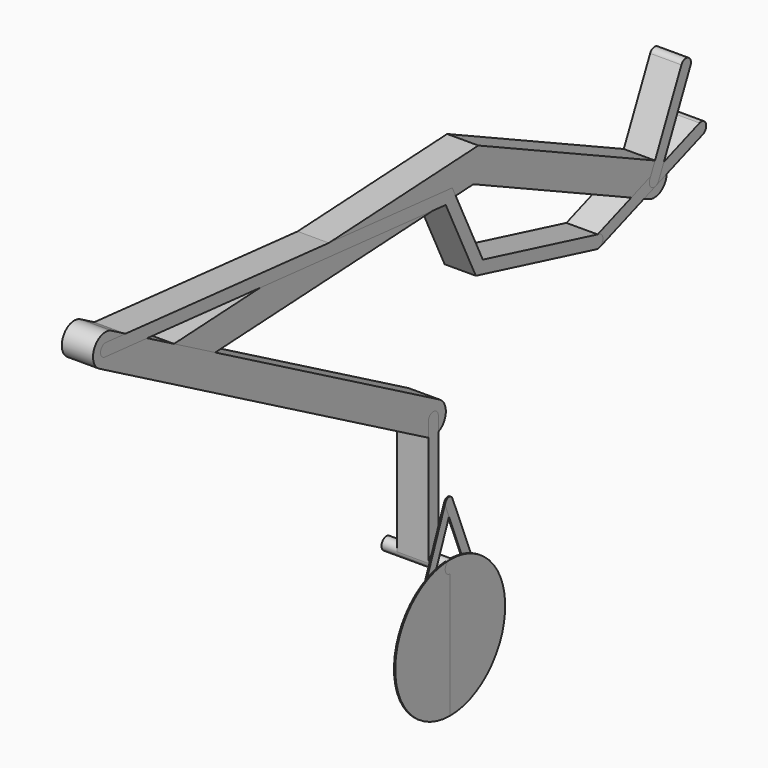
from build123d import *

# Parameters (mm, degrees)
F4_DEPTH  = 25
F5_DEPTH  = 25
F6_DEPTH  = 25
F7_DEPTH  = 25
F9_DEPTH  = 25
F11_DEPTH = 25
F12_DEPTH = 50
F14_DEPTH = 2
F15_DEPTH = 2
F16_DEPTH = 2
F17_DEPTH = 2


with BuildPart() as f4:
    # F0 (on Right) → F4 (new body, symmetric)
    with BuildSketch(Plane.YZ):
        with BuildLine():
            ThreePointArc((-10.5654565435, -22.6576946759), (13.4324902087, -21.0847861453), (25, 0))
            ThreePointArc((25, 0), (21.0847861453, 13.4324902087), (10.5654565435, 22.6576946759))
            ThreePointArc((10.5654565435, 22.6576946759), (-22.6576946759, 10.5654565435), (-10.5654565435, -22.6576946759))
        make_face()
        with BuildLine():
            ThreePointArc((-10.5654565435, -22.6576946759), (-22.6576946759, 10.5654565435), (10.5654565435, 22.6576946759))
            Line((10.5654565435, 22.6576946759), (-351.9576582711, 191.7049993722))
            Line((-351.9576582711, 191.7049993722), (-361.9619242348, 141.2011692572))
            Line((-361.9619242348, 141.2011692572), (-10.5654565435, -22.6576946759))
        make_face()
        with BuildLine():
            Line((-361.9619242348, 141.2011692572), (-351.9576582711, 191.7049993722))
            Line((-351.9576582711, 191.7049993722), (-968.1120812147, 159.4137143703))
            ThreePointArc((-968.1120812147, 159.4137143703), (-991.6920086499, 132.0876345158), (-963.3955999376, 109.6813659275))
            Line((-963.3955999376, 109.6813659275), (-361.9619242348, 141.2011692572))
        make_face()
    extrude(amount=F4_DEPTH, both=True)


with BuildPart() as f5:
    # F1 (on Right) → F5 (new body, symmetric)
    with BuildSketch(Plane.YZ):
        with BuildLine():
            ThreePointArc((-454.1520985312, -178.3032888249), (-429.343398951, -177.9785251574), (-417.031858025, -156.4377961464))
            ThreePointArc((-417.031858025, -156.4377961464), (-420.491129014, -143.7493370723), (-429.9116175188, -134.5723034679))
            ThreePointArc((-429.9116175188, -134.5723034679), (-463.8973507035, -144.3175556402), (-454.1520985312, -178.3032888249))
        make_face()
        with BuildLine():
            ThreePointArc((-454.1520985312, -178.3032888249), (-463.8973507035, -144.3175556402), (-429.9116175188, -134.5723034679))
            Line((-429.9116175188, -134.5723034679), (-954.6834418025, 156.3134686799))
            ThreePointArc((-954.6834418025, 156.3134686799), (-945.2629532976, 147.1364350755), (-941.8036823086, 134.4479760014))
            ThreePointArc((-941.8036823086, 134.4479760014), (-954.1152232346, 112.9072469904), (-978.9239228148, 112.582483323))
            Line((-978.9239228148, 112.582483323), (-454.1520985312, -178.3032888249))
        make_face()
        with BuildLine():
            ThreePointArc((-978.9239228148, 112.582483323), (-988.6691749871, 146.5682165076), (-954.6834418025, 156.3134686799))
            Line((-954.6834418025, 156.3134686799), (-1085.8763978734, 229.0349117169))
            ThreePointArc((-1085.8763978734, 229.0349117169), (-1119.862131058, 219.2896595445), (-1110.1168788857, 185.3039263599))
            Line((-1110.1168788857, 185.3039263599), (-978.9239228148, 112.582483323))
        make_face()
        with BuildLine():
            ThreePointArc((-941.8036823086, 134.4479760014), (-945.2629532976, 147.1364350755), (-954.6834418025, 156.3134686799))
            ThreePointArc((-954.6834418025, 156.3134686799), (-988.6691749871, 146.5682165076), (-978.9239228148, 112.582483323))
            ThreePointArc((-978.9239228148, 112.582483323), (-954.1152232346, 112.9072469904), (-941.8036823086, 134.4479760014))
        make_face()
    extrude(amount=F5_DEPTH, both=True)


with BuildPart() as f6:
    # F2 (on Right) → F6 (new body, symmetric)
    with BuildSketch(Plane.YZ):
        with BuildLine():
            ThreePointArc((3.4202014333, -9.3969262079), (8.1915204429, -5.7357643635), (10, 0))
            ThreePointArc((10, 0), (5.7357643635, 8.1915204429), (-3.4202014333, 9.3969262079))
            ThreePointArc((-3.4202014333, 9.3969262079), (-9.3969262079, -3.4202014333), (3.4202014333, -9.3969262079))
        make_face()
        with BuildLine():
            ThreePointArc((-3.4202014333, 9.3969262079), (5.7357643635, 8.1915204429), (10, 0))
            ThreePointArc((10, 0), (8.1915204429, -5.7357643635), (3.4202014333, -9.3969262079))
            Line((3.4202014333, -9.3969262079), (97.3894635118, 24.8050881247))
            ThreePointArc((97.3894635118, 24.8050881247), (103.3661882864, 37.6222157658), (90.5490606453, 43.5989405404))
            Line((90.5490606453, 43.5989405404), (-3.4202014333, 9.3969262079))
        make_face()
        with BuildLine():
            ThreePointArc((3.4202014333, -9.3969262079), (-9.3969262079, -3.4202014333), (-3.4202014333, 9.3969262079))
            Line((-3.4202014333, 9.3969262079), (-116.1833159276, -31.6454909912))
            ThreePointArc((-116.1833159276, -31.6454909912), (-122.1600407022, -44.4626186323), (-109.3429130611, -50.4393434069))
            Line((-109.3429130611, -50.4393434069), (3.4202014333, -9.3969262079))
        make_face()
    extrude(amount=F6_DEPTH, both=True)


with BuildPart() as f7:
    # F3 (on Right) → F7 (new body, symmetric)
    with BuildSketch(Plane.YZ):
        with BuildLine():
            ThreePointArc((-115.2060991615, -50.7394180713), (-106.6161577949, -48.9300609116), (-102.7631144943, -41.0424171991))
            ThreePointArc((-102.7631144943, -41.0424171991), (-104.8754707818, -34.8954604997), (-110.3201298271, -31.3454163269))
            ThreePointArc((-110.3201298271, -31.3454163269), (-122.4601153665, -38.5994325319), (-115.2060991615, -50.7394180713))
        make_face()
        with BuildLine():
            ThreePointArc((-115.2060991615, -50.7394180713), (-122.4601153665, -38.5994325319), (-110.3201298271, -31.3454163269))
            Line((-110.3201298271, -31.3454163269), (-343.0481507602, 27.2862156865))
            Line((-343.0481507602, 27.2862156865), (-404.1116313197, 153.2673703961))
            Line((-404.1116313197, 153.2673703961), (-1097.0789846366, 217.1272256045))
            ThreePointArc((-1097.0789846366, 217.1272256045), (-1090.6082509564, 213.9082417312), (-1087.9966383796, 207.1694190384))
            ThreePointArc((-1087.9966383796, 207.1694190384), (-1090.7063531266, 200.3245858826), (-1097.3669865658, 197.1892617955))
            Line((-1097.3669865658, 197.1892617955), (-417.2470419466, 134.5133493158))
            Line((-417.2470419466, 134.5133493158), (-356.9776916303, 10.1705788603))
            Line((-356.9776916303, 10.1705788603), (-115.2060991615, -50.7394180713))
        make_face()
        with BuildLine():
            ThreePointArc((-1087.9966383796, 207.1694190384), (-1090.6082509564, 213.9082417312), (-1097.0789846366, 217.1272256045))
            ThreePointArc((-1097.0789846366, 217.1272256045), (-1107.8535913807, 208.8547906691), (-1100.4396230468, 197.4724181662))
            Line((-1100.4396230468, 197.4724181662), (-1097.3669865658, 197.1892617955))
            ThreePointArc((-1097.3669865658, 197.1892617955), (-1090.7063531266, 200.3245858826), (-1087.9966383796, 207.1694190384))
        make_face()
        with BuildLine():
            ThreePointArc((-1100.4396230468, 197.4724181662), (-1098.9142921225, 197.2116124723), (-1097.3669865658, 197.1892617955))
            Line((-1097.3669865658, 197.1892617955), (-1100.4396230468, 197.4724181662))
        make_face()
    extrude(amount=F7_DEPTH, both=True)


with BuildPart() as f9:
    # F8 (on Right) → F9 (new body, symmetric)
    with BuildSketch(Plane.YZ):
        with BuildLine():
            ThreePointArc((9.0630778704, -4.2261826174), (9.7629600712, -2.1643961394), (10, 0))
            ThreePointArc((10, 0), (2.1643961394, 9.7629600712), (-9.0630778704, 4.2261826174))
            ThreePointArc((-9.0630778704, 4.2261826174), (-4.2261826174, -9.0630778704), (9.0630778704, -4.2261826174))
        make_face()
        with BuildLine():
            ThreePointArc((-9.0630778704, 4.2261826174), (2.1643961394, 9.7629600712), (10, 0))
            ThreePointArc((10, 0), (9.7629600712, -2.1643961394), (9.0630778704, -4.2261826174))
            Line((9.0630778704, -4.2261826174), (72.4558171315, 131.7199854381))
            ThreePointArc((72.4558171315, 131.7199854381), (67.6189218785, 145.0092459259), (54.3296613907, 140.1723506729))
            Line((54.3296613907, 140.1723506729), (-9.0630778704, 4.2261826174))
        make_face()
    extrude(amount=F9_DEPTH, both=True)


with BuildPart() as f11:
    # F10 (on Right) → F11 (new body, symmetric)
    with BuildSketch(Plane.YZ):
        with BuildLine():
            Line((-432.031858025, -356.4377961464), (-432.031858025, -156.4377961464))
            ThreePointArc((-432.031858025, -156.4377961464), (-442.031858025, -166.4377961464), (-452.031858025, -156.4377961464))
            Line((-452.031858025, -156.4377961464), (-452.031858025, -356.4377961464))
            ThreePointArc((-452.031858025, -356.4377961464), (-442.031858025, -346.4377961464), (-432.031858025, -356.4377961464))
        make_face()
        with BuildLine():
            ThreePointArc((-452.031858025, -356.4377961464), (-442.031858025, -366.4377961464), (-432.031858025, -356.4377961464))
            ThreePointArc((-432.031858025, -356.4377961464), (-442.031858025, -346.4377961464), (-452.031858025, -356.4377961464))
        make_face()
        with BuildLine():
            ThreePointArc((-452.031858025, -156.4377961464), (-442.031858025, -166.4377961464), (-432.031858025, -156.4377961464))
            ThreePointArc((-432.031858025, -156.4377961464), (-442.031858025, -146.4377961464), (-452.031858025, -156.4377961464))
        make_face()
    extrude(amount=F11_DEPTH, both=True)

    # F10 (on Right) → F12 (join, symmetric)
    with BuildSketch(Plane.YZ):
        with BuildLine():
            ThreePointArc((-452.031858025, -356.4377961464), (-442.031858025, -366.4377961464), (-432.031858025, -356.4377961464))
            ThreePointArc((-432.031858025, -356.4377961464), (-442.031858025, -346.4377961464), (-452.031858025, -356.4377961464))
        make_face()
    extrude(amount=F12_DEPTH, both=True)


with BuildPart() as f14:
    # F13 (on face) → F14 (new body)
    with BuildSketch(Plane.YZ.offset(50)):
        with BuildLine():
            ThreePointArc((-452.031858025, -356.4377961464), (-449.1029258369, -349.3667283345), (-442.031858025, -346.4377961464))
            ThreePointArc((-442.031858025, -346.4377961464), (-454.6559095951, -347.1645911876), (-467.1131412001, -349.3353721108))
            Line((-467.1131412001, -349.3353721108), (-475.0682828434, -369.223226219))
            ThreePointArc((-475.0682828434, -369.223226219), (-484.8172880977, -373.401371328), (-488.9954332066, -363.6523660737))
            Line((-488.9954332066, -363.6523660737), (-485.7305531536, -355.4901659411))
            ThreePointArc((-485.7305531536, -355.4901659411), (-549.7449939987, -478.7510285144), (-442.031858025, -566.4377961464))
            Line((-442.031858025, -566.4377961464), (-442.031858025, -366.4377961464))
            ThreePointArc((-442.031858025, -366.4377961464), (-449.1029258369, -363.5088639582), (-452.031858025, -356.4377961464))
        make_face()
        with BuildLine():
            ThreePointArc((-442.031858025, -366.4377961464), (-434.9607902131, -363.5088639582), (-432.031858025, -356.4377961464))
            ThreePointArc((-432.031858025, -356.4377961464), (-434.9607902131, -349.3667283345), (-442.031858025, -346.4377961464))
            ThreePointArc((-442.031858025, -346.4377961464), (-449.1029258369, -349.3667283345), (-452.031858025, -356.4377961464))
            ThreePointArc((-452.031858025, -356.4377961464), (-449.1029258369, -363.5088639582), (-442.031858025, -366.4377961464))
        make_face()
        with BuildLine():
            ThreePointArc((-488.9954332066, -363.6523660737), (-484.8172880977, -373.401371328), (-475.0682828434, -369.223226219))
            ThreePointArc((-475.0682828434, -369.223226219), (-474.6671851245, -367.856102555), (-474.531858025, -366.4377961464))
            ThreePointArc((-474.531858025, -366.4377961464), (-480.6135516163, -359.0731232459), (-488.9954332066, -363.6523660737))
        make_face()
        with BuildLine():
            Line((-475.0682828434, -369.223226219), (-467.1131412001, -349.3353721108))
            ThreePointArc((-467.1131412001, -349.3353721108), (-476.5592634537, -351.9971035292), (-485.7305531536, -355.4901659411))
            Line((-485.7305531536, -355.4901659411), (-488.9954332066, -363.6523660737))
            ThreePointArc((-488.9954332066, -363.6523660737), (-480.6135516163, -359.0731232459), (-474.531858025, -366.4377961464))
            ThreePointArc((-474.531858025, -366.4377961464), (-474.6671851245, -367.856102555), (-475.0682828434, -369.223226219))
        make_face()
    extrude(amount=F14_DEPTH)


with BuildPart() as f15:
    # F13 (on face) → F15 (new body)
    with BuildSketch(Plane.YZ.offset(50)):
        with BuildLine():
            ThreePointArc((-442.031858025, -346.4377961464), (-434.9607902131, -349.3667283345), (-432.031858025, -356.4377961464))
            ThreePointArc((-432.031858025, -356.4377961464), (-434.9607902131, -363.5088639582), (-442.031858025, -366.4377961464))
            Line((-442.031858025, -366.4377961464), (-442.031858025, -566.4377961464))
            ThreePointArc((-442.031858025, -566.4377961464), (-334.3187220513, -478.7510285144), (-398.3331628964, -355.4901659411))
            Line((-398.3331628964, -355.4901659411), (-395.0682828434, -363.6523660737))
            ThreePointArc((-395.0682828434, -363.6523660737), (-394.6671851245, -365.0194897377), (-394.531858025, -366.4377961464))
            ThreePointArc((-394.531858025, -366.4377961464), (-400.6135516163, -373.8024690469), (-408.9954332066, -369.223226219))
            Line((-408.9954332066, -369.223226219), (-416.9505748499, -349.3353721108))
            ThreePointArc((-416.9505748499, -349.3353721108), (-429.4078064549, -347.1645911876), (-442.031858025, -346.4377961464))
        make_face()
        with BuildLine():
            ThreePointArc((-442.031858025, -366.4377961464), (-434.9607902131, -363.5088639582), (-432.031858025, -356.4377961464))
            ThreePointArc((-432.031858025, -356.4377961464), (-434.9607902131, -349.3667283345), (-442.031858025, -346.4377961464))
            ThreePointArc((-442.031858025, -346.4377961464), (-449.1029258369, -349.3667283345), (-452.031858025, -356.4377961464))
            ThreePointArc((-452.031858025, -356.4377961464), (-449.1029258369, -363.5088639582), (-442.031858025, -366.4377961464))
        make_face()
        with BuildLine():
            ThreePointArc((-395.0682828434, -363.6523660737), (-404.8172880977, -359.4742209647), (-408.9954332066, -369.223226219))
            ThreePointArc((-408.9954332066, -369.223226219), (-400.6135516163, -373.8024690469), (-394.531858025, -366.4377961464))
            ThreePointArc((-394.531858025, -366.4377961464), (-394.6671851245, -365.0194897377), (-395.0682828434, -363.6523660737))
        make_face()
        with BuildLine():
            ThreePointArc((-398.3331628964, -355.4901659411), (-407.5044525963, -351.9971035292), (-416.9505748499, -349.3353721108))
            Line((-416.9505748499, -349.3353721108), (-408.9954332066, -369.223226219))
            ThreePointArc((-408.9954332066, -369.223226219), (-404.8172880977, -359.4742209647), (-395.0682828434, -363.6523660737))
            Line((-395.0682828434, -363.6523660737), (-398.3331628964, -355.4901659411))
        make_face()
    extrude(amount=F15_DEPTH)


with BuildPart() as f16:
    # F13 (on face) → F16 (new body)
    with BuildSketch(Plane.YZ.offset(50)):
        with BuildLine():
            ThreePointArc((-488.9954332066, -363.6523660737), (-484.8172880977, -373.401371328), (-475.0682828434, -369.223226219))
            ThreePointArc((-475.0682828434, -369.223226219), (-474.6671851245, -367.856102555), (-474.531858025, -366.4377961464))
            ThreePointArc((-474.531858025, -366.4377961464), (-480.6135516163, -359.0731232459), (-488.9954332066, -363.6523660737))
        make_face()
        with BuildLine():
            Line((-475.0682828434, -369.223226219), (-467.1131412001, -349.3353721108))
            ThreePointArc((-467.1131412001, -349.3353721108), (-476.5592634537, -351.9971035292), (-485.7305531536, -355.4901659411))
            Line((-485.7305531536, -355.4901659411), (-488.9954332066, -363.6523660737))
            ThreePointArc((-488.9954332066, -363.6523660737), (-480.6135516163, -359.0731232459), (-474.531858025, -366.4377961464))
            ThreePointArc((-474.531858025, -366.4377961464), (-474.6671851245, -367.856102555), (-475.0682828434, -369.223226219))
        make_face()
        with BuildLine():
            ThreePointArc((-485.7305531536, -355.4901659411), (-476.5592634537, -351.9971035292), (-467.1131412001, -349.3353721108))
            Line((-467.1131412001, -349.3353721108), (-442.031858025, -286.6321641731))
            Line((-442.031858025, -286.6321641731), (-448.9954332066, -269.223226219))
            ThreePointArc((-448.9954332066, -269.223226219), (-449.531858025, -266.4377961464), (-448.9954332066, -263.6523660737))
            Line((-448.9954332066, -263.6523660737), (-485.7305531536, -355.4901659411))
        make_face()
        with BuildLine():
            ThreePointArc((-434.531858025, -266.4377961464), (-434.6671851245, -265.0194897377), (-435.0682828434, -263.6523660737))
            ThreePointArc((-435.0682828434, -263.6523660737), (-442.031858025, -258.9377961464), (-448.9954332066, -263.6523660737))
            ThreePointArc((-448.9954332066, -263.6523660737), (-449.531858025, -266.4377961464), (-448.9954332066, -269.223226219))
            ThreePointArc((-448.9954332066, -269.223226219), (-442.031858025, -273.9377961464), (-435.0682828434, -269.223226219))
            ThreePointArc((-435.0682828434, -269.223226219), (-434.6671851245, -267.856102555), (-434.531858025, -266.4377961464))
        make_face()
        with BuildLine():
            Line((-448.9954332066, -269.223226219), (-442.031858025, -286.6321641731))
            Line((-442.031858025, -286.6321641731), (-435.0682828434, -269.223226219))
            ThreePointArc((-435.0682828434, -269.223226219), (-442.031858025, -273.9377961464), (-448.9954332066, -269.223226219))
        make_face()
    extrude(amount=-F16_DEPTH)


with BuildPart() as f17:
    # F13 (on face) → F17 (new body)
    with BuildSketch(Plane.YZ.offset(50)):
        with BuildLine():
            ThreePointArc((-395.0682828434, -363.6523660737), (-404.8172880977, -359.4742209647), (-408.9954332066, -369.223226219))
            ThreePointArc((-408.9954332066, -369.223226219), (-400.6135516163, -373.8024690469), (-394.531858025, -366.4377961464))
            ThreePointArc((-394.531858025, -366.4377961464), (-394.6671851245, -365.0194897377), (-395.0682828434, -363.6523660737))
        make_face()
        with BuildLine():
            Line((-442.031858025, -286.6321641731), (-416.9505748499, -349.3353721108))
            ThreePointArc((-416.9505748499, -349.3353721108), (-407.5044525963, -351.9971035292), (-398.3331628964, -355.4901659411))
            Line((-398.3331628964, -355.4901659411), (-435.0682828434, -263.6523660737))
            ThreePointArc((-435.0682828434, -263.6523660737), (-434.6671851245, -265.0194897377), (-434.531858025, -266.4377961464))
            ThreePointArc((-434.531858025, -266.4377961464), (-434.6671851245, -267.856102555), (-435.0682828434, -269.223226219))
            Line((-435.0682828434, -269.223226219), (-442.031858025, -286.6321641731))
        make_face()
        with BuildLine():
            ThreePointArc((-398.3331628964, -355.4901659411), (-407.5044525963, -351.9971035292), (-416.9505748499, -349.3353721108))
            Line((-416.9505748499, -349.3353721108), (-408.9954332066, -369.223226219))
            ThreePointArc((-408.9954332066, -369.223226219), (-404.8172880977, -359.4742209647), (-395.0682828434, -363.6523660737))
            Line((-395.0682828434, -363.6523660737), (-398.3331628964, -355.4901659411))
        make_face()
        with BuildLine():
            Line((-448.9954332066, -269.223226219), (-442.031858025, -286.6321641731))
            Line((-442.031858025, -286.6321641731), (-435.0682828434, -269.223226219))
            ThreePointArc((-435.0682828434, -269.223226219), (-442.031858025, -273.9377961464), (-448.9954332066, -269.223226219))
        make_face()
        with BuildLine():
            ThreePointArc((-434.531858025, -266.4377961464), (-434.6671851245, -265.0194897377), (-435.0682828434, -263.6523660737))
            ThreePointArc((-435.0682828434, -263.6523660737), (-442.031858025, -258.9377961464), (-448.9954332066, -263.6523660737))
            ThreePointArc((-448.9954332066, -263.6523660737), (-449.531858025, -266.4377961464), (-448.9954332066, -269.223226219))
            ThreePointArc((-448.9954332066, -269.223226219), (-442.031858025, -273.9377961464), (-435.0682828434, -269.223226219))
            ThreePointArc((-435.0682828434, -269.223226219), (-434.6671851245, -267.856102555), (-434.531858025, -266.4377961464))
        make_face()
    extrude(amount=-F17_DEPTH)


solid = Compound([f4.part, f5.part, f6.part, f7.part, f9.part, f11.part, f14.part, f15.part, f16.part, f17.part])
